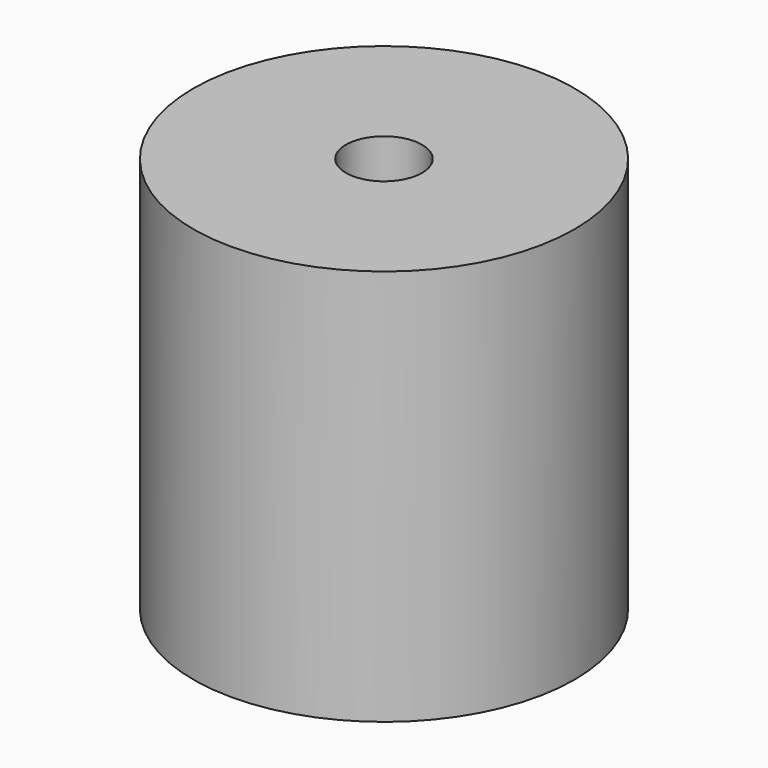
from build123d import *

# Parameters (mm, degrees)
SKETCH077_R        = 12.5
PAD036_DEPTH       = 13
SKETCH078_R        = 2.5
POCKET036_DEPTH    = 8
SKETCH073_R        = 2.5
POCKET035_DEPTH    = 8
BODY017_ROLL_ANGLE = 90


with BuildPart() as part:
    # Sketch077 → Pad036 (new body, symmetric)
    with BuildSketch(Plane.XZ):
        Circle(SKETCH077_R)
    extrude(amount=PAD036_DEPTH, both=True)

    # Sketch078 (on Face3 of Pad036) → Pocket036 (cut)
    with BuildSketch(Plane.XZ.offset(13)):
        Circle(SKETCH078_R)
    extrude(amount=-POCKET036_DEPTH, mode=Mode.SUBTRACT)

    # Sketch073 (on Face2 of Pocket036) → Pocket035 (cut)
    with BuildSketch(Plane(origin=(0, 13, 0), x_dir=(1, 0, 0), z_dir=(0, 1, 0))):
        Circle(SKETCH073_R)
    extrude(amount=-POCKET035_DEPTH, mode=Mode.SUBTRACT)


with BuildPart() as part_1:
    # Body017 roll: moved
    add(part.part.rotate(Axis((0, 0, 0), (1, 0, 0)), BODY017_ROLL_ANGLE))


with BuildPart() as part_2:
    # Body017 placement: moved
    add(part_1.part.moved(Location((0, 0, 25))))


solid = part_2.part
